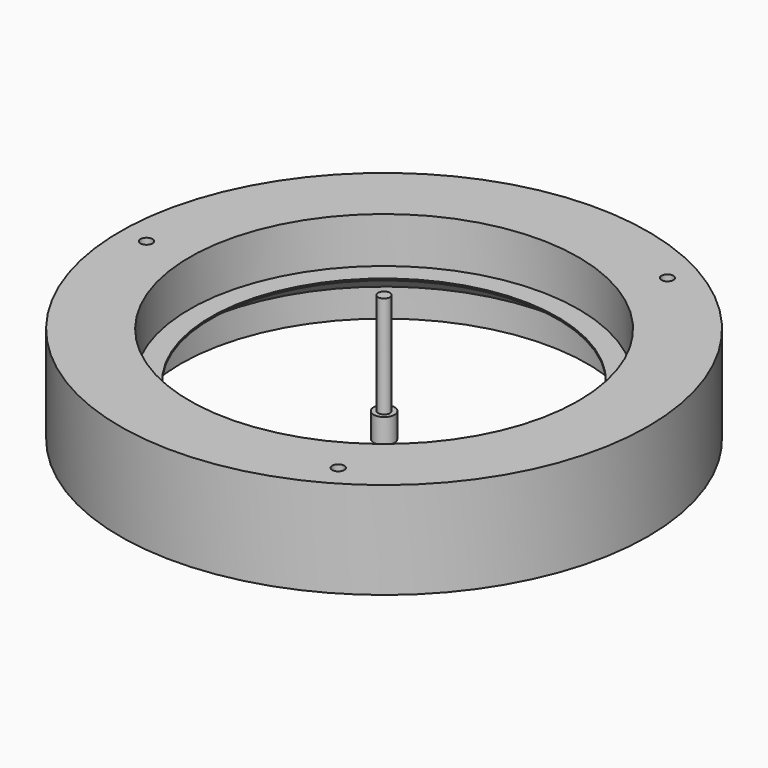
from build123d import *

# Parameters (mm, degrees)
CYLINDER_R               = 2.95
CYLINDER_DEPTH           = 7
CYLINDER001_R            = 1.7
CYLINDER001_DEPTH        = 30
CLONE393_PLACEMENT_ANGLE = 180
ARRAY021_COUNT           = 3


with BuildPart() as m3bolthead:
    # Cylinder → Cylinder (new body)
    with BuildSketch(Plane.XY):
        Circle(CYLINDER_R)
    extrude(amount=CYLINDER_DEPTH)


with BuildPart() as m3bolt:
    # Cylinder001 → Cylinder001 (new body)
    with BuildSketch(Plane.XY.offset(6)):
        Circle(CYLINDER001_R)
    extrude(amount=CYLINDER001_DEPTH)

    # Fusion: union M3BoltHead
    add(m3bolthead.part)


with BuildPart() as array021:
    # Clone393 base: copy of M3Bolt
    add(m3bolt.part)


with BuildPart() as array021_1:
    # Clone393 placement: moved
    add(array021.part.moved(Location((-67.5, 0, 35))).rotate(Axis((-67.5, 0, 35), (0, 1, 0)), CLONE393_PLACEMENT_ANGLE))

    # Array021: Array021 ×3 about axis
    array021_axis = Axis((0, 0, 0), (0, 0, 1))


with BuildPart() as array021_2:
    add(array021_1.part)
    for i in range(1, ARRAY021_COUNT):
        add(array021_1.part.rotate(array021_axis, i * 360 / ARRAY021_COUNT))


with BuildPart() as basetop:
    # Sketch076 → Revolution021 (revolve)
    with BuildSketch(Plane.XZ):
        Polygon((57.818888, 0), (57.818888, 8), (49.25, 14), (49.25, 14.5), (55.25, 14.5), (55.25, 27.5), (75, 27.5), (75, 0), align=None)
    revolve(axis=Axis((0, 0, 0), (0, 0, 1)))

    # Cut128: cut Array021
    add(array021_2.part, mode=Mode.SUBTRACT)


solid = Compound([m3bolt.part, basetop.part])
